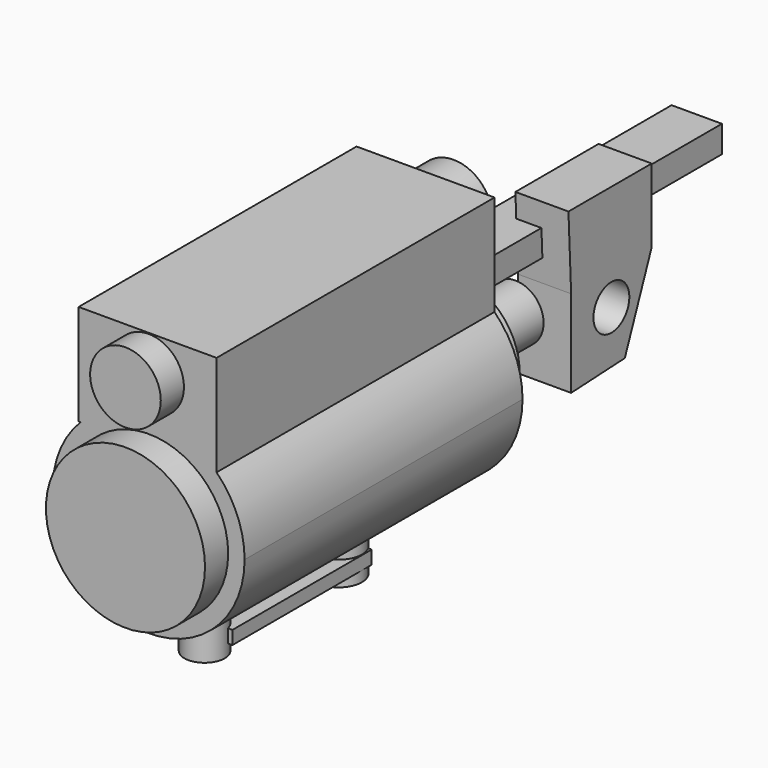
from build123d import *

# Parameters (mm, degrees)
F1_DEPTH  = 18.288
F2_R      = 3.4799850438
F2_R_2    = 2.0474430639
F3_DEPTH  = 1.778
F4_R      = 4.1871679965
F4_R_2    = 1.8588242599
F5_DEPTH  = 19.812
F6_R      = 1.062986484
F6_R_2    = 1.2354744031
F7_DEPTH  = 7.366
F8_W      = 9.1641424224
F8_H      = 0.7049338892
F9_DEPTH  = 1.27
F10_W     = 2.6493370533
F10_H     = 1.4129802585
F11_DEPTH = 17.78
F12_R     = 1.1796889781
F13_DEPTH = 2.794
F14_R     = 1.4881662005
F15_DEPTH = 5.842


with BuildPart() as f1:
    # F0 (on Front) → F1 (new body)
    with BuildSketch(Plane.XZ):
        with BuildLine():
            ThreePointArc((-3.577367444, 3.5675205461), (-1.9301777364, -4.6689586186), (5.0522035466, 0))
            ThreePointArc((5.0522035466, 0), (4.6689586186, 1.9301777364), (3.577367444, 3.5675205461))
            Line((3.577367444, 3.5675205461), (-3.577367444, 3.5675205461))
        make_face()
        with BuildLine():
            Line((-3.577367444, 3.5675205461), (3.577367444, 3.5675205461))
            ThreePointArc((3.577367444, 3.5675205461), (0, 5.0522035466), (-3.577367444, 3.5675205461))
        make_face()
        with BuildLine():
            ThreePointArc((-3.577367444, 3.5675205461), (0, 5.0522035466), (3.577367444, 3.5675205461))
            Line((3.577367444, 3.5675205461), (3.577367444, 8.872252889))
            Line((3.577367444, 8.872252889), (-3.6853936035, 8.872252889))
            Line((-3.6853936035, 8.872252889), (-3.6853936035, 3.5675205461))
            Line((-3.6853936035, 3.5675205461), (-3.577367444, 3.5675205461))
        make_face()
    extrude(amount=F1_DEPTH)

    # F2 (on Front) → F3 (join)
    with BuildSketch(Plane.XZ):
        Circle(F2_R)
        with Locations((0, 6.6883149557)):
            Circle(F2_R_2)
    extrude(amount=-F3_DEPTH)

    # F4 (on Front) → F5 (join)
    with BuildSketch(Plane.XZ):
        Circle(F4_R)
        with Locations((0, 6.961222738)):
            Circle(F4_R_2)
    extrude(amount=F5_DEPTH)

    # F6 (on Top) → F7 (join)
    with BuildSketch(Plane.XY):
        with Locations((0, -14.6069657058)):
            Circle(F6_R)
        with Locations((0, -5.7952911593)):
            Circle(F6_R_2)
    extrude(amount=-F7_DEPTH)

    # F8 (on Right) → F9 (join)
    with BuildSketch(Plane.YZ):
        with Locations((-9.7809578292, -6.4325220883)):
            Rectangle(F8_W, F8_H)
    extrude(amount=F9_DEPTH)

    # F10 (on Front) → F11 (join)
    with BuildSketch(Plane.XZ):
        with Locations((0, 3.6207614467)):
            Rectangle(F10_W, F10_H)
    extrude(amount=-F11_DEPTH)

    # F12 (on Right) → F13 (join)
    with BuildSketch(Plane.YZ):
        Polygon((11.320493184, 5.5902907625), (5.8451956138, 5.5902907625), (6.0218176804, 1.7045951681), (11.320493184, 1.7045951681), align=None)
        Polygon((11.320493184, 1.7045951681), (6.0218176804, 1.7045951681), (6.0218176804, -2.8875903226), (9.5542669296, -2.7109677903), align=None)
        with Locations((8.6711554322, 0)):
            Circle(F12_R, mode=Mode.SUBTRACT)
    extrude(amount=F13_DEPTH)

    # F14 (on Front) → F15 (join)
    with BuildSketch(Plane.XZ):
        Circle(F14_R)
    extrude(amount=-F15_DEPTH)


solid = f1.part
